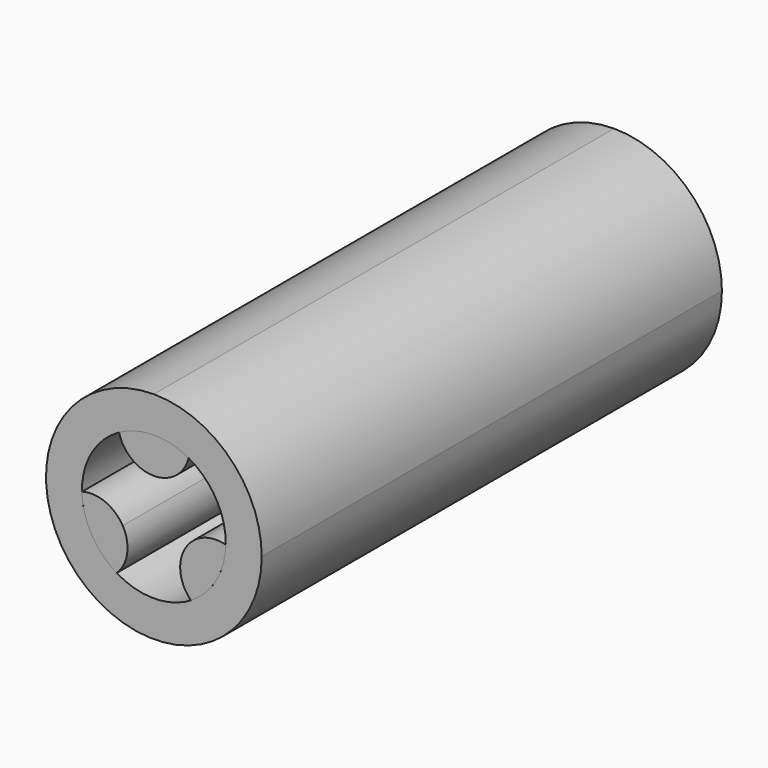
from build123d import *

# Parameters (mm, degrees)
F1_DEPTH = 12.7
F3_COUNT = 3
F5_DEPTH = 12.7
F6_DEPTH = 12.7
F7_COUNT = 3


with BuildPart() as f1:
    # F0 (on Front) → F1 (new body)
    with BuildSketch(Plane.XZ):
        with BuildLine():
            ThreePointArc((0, 1.5875), (0.972141, 1.919971), (1.53709, 2.778125))
            ThreePointArc((1.53709, 2.778125), (0.79375, 3.074181), (0, 3.175))
            Line((0, 3.175), (0, 1.5875))
        make_face()
        with BuildLine():
            ThreePointArc((0, 3.175), (-0.79375, 3.074181), (-1.53709, 2.778125))
            ThreePointArc((-1.53709, 2.778125), (-0.972141, 1.919971), (0, 1.5875))
            Line((0, 1.5875), (0, 3.175))
        make_face()
    extrude(amount=F1_DEPTH)


with BuildPart() as f3_1:
    # F3: instance of F1
    add(f1.part.rotate(Axis((0, -1.497479, 0), (0, -1, 0)), 1 * 360 / F3_COUNT))


with BuildPart() as f3_2:
    # F3: instance of F1
    add(f1.part.rotate(Axis((0, -1.497479, 0), (0, -1, 0)), 2 * 360 / F3_COUNT))


with BuildPart() as f5:
    # F0 (on Front) → F5 (new body, symmetric)
    with BuildSketch(Plane.XZ):
        with BuildLine():
            ThreePointArc((0, 4.7625), (-3.367596, -3.367596), (4.7625, 0))
            ThreePointArc((4.7625, 0), (3.367596, 3.367596), (0, 4.7625))
        make_face()
        with BuildLine():
            ThreePointArc((-1.53709, 2.778125), (-1.255029, 4.147141), (0, 4.7625))
            ThreePointArc((0, 4.7625), (1.122532, 4.297532), (1.5875, 3.175))
            ThreePointArc((1.5875, 3.175), (1.574847, 2.974968), (1.53709, 2.778125))
            ThreePointArc((1.53709, 2.778125), (2.73504, 1.612508), (3.175, 0))
            ThreePointArc((3.175, 0), (-1.612508, -2.73504), (-1.53709, 2.778125))
        make_face(mode=Mode.SUBTRACT)
        with BuildLine():
            ThreePointArc((1.5875, 3.175), (1.122532, 4.297532), (0, 4.7625))
            ThreePointArc((0, 4.7625), (-1.255029, 4.147141), (-1.53709, 2.778125))
            ThreePointArc((-1.53709, 2.778125), (-0.79375, 3.074181), (0, 3.175))
            ThreePointArc((0, 3.175), (0.79375, 3.074181), (1.53709, 2.778125))
            ThreePointArc((1.53709, 2.778125), (1.574847, 2.974968), (1.5875, 3.175))
        make_face()
    extrude(amount=F5_DEPTH, both=True)


with BuildPart() as f6:
    # F4 (on Front) → F6 (new body)
    with BuildSketch(Plane.XZ):
        with BuildLine():
            ThreePointArc((-2.749631, 1.5875), (-3.059193, 0.849683), (-3.174472, 0.057903))
            ThreePointArc((-3.174472, 0.057903), (-2.964015, 0.014542), (-2.749631, 0))
            ThreePointArc((-2.749631, 0), (-1.955881, 0.212685), (-1.374815, 0.79375))
            Line((-1.374815, 0.79375), (-2.749631, 1.5875))
        make_face()
        with BuildLine():
            ThreePointArc((-1.162131, 1.5875), (-1.285757, 2.201691), (-1.637382, 2.720222))
            ThreePointArc((-1.637382, 2.720222), (-2.265443, 2.224498), (-2.749631, 1.5875))
            Line((-2.749631, 1.5875), (-1.374815, 0.79375))
            ThreePointArc((-1.374815, 0.79375), (-1.216223, 1.176625), (-1.162131, 1.5875))
        make_face()
    extrude(amount=-F6_DEPTH)


with BuildPart() as f7_1:
    # F7: instance of F6
    add(f6.part.rotate(Axis((0, -1.497479, 0), (0, -1, 0)), 1 * 360 / F7_COUNT))


with BuildPart() as f7_2:
    # F7: instance of F6
    add(f6.part.rotate(Axis((0, -1.497479, 0), (0, -1, 0)), 2 * 360 / F7_COUNT))


solid = Compound([f1.part, f3_1.part, f3_2.part, f5.part, f6.part, f7_1.part, f7_2.part])
